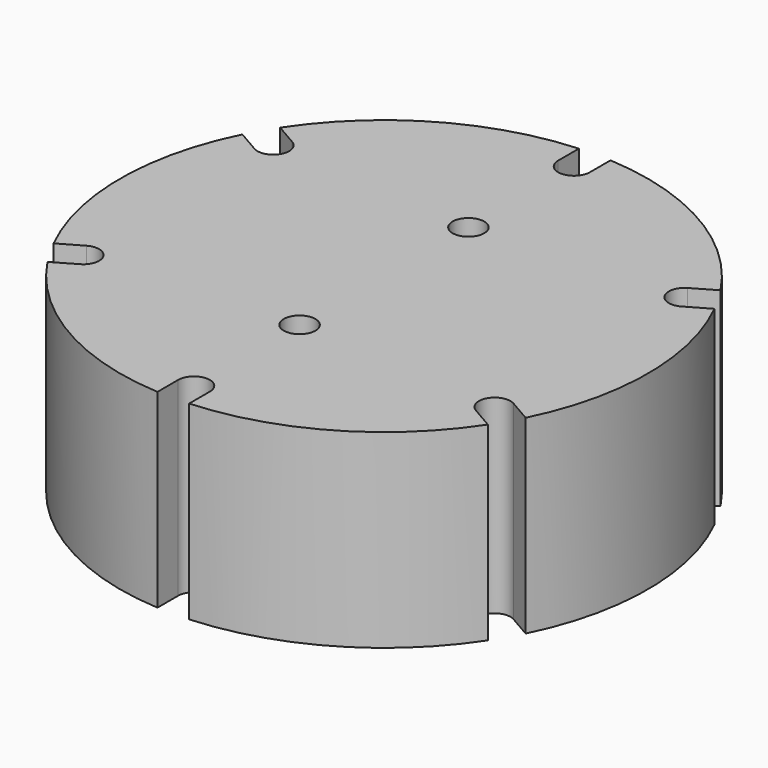
from build123d import *

# Parameters (mm, degrees)
F0_R     = 7.5
F1_DEPTH = 90


with BuildPart() as f1:
    # F0 (on Top) → F1 (new body)
    with BuildSketch(Plane.XY):
        with BuildLine():
            Line((-7.5, 112.5), (-7.5, 124.774797))
            ThreePointArc((-7.5, 124.774797), (-62.5, 108.253175), (-104.308144, 68.882589))
            Line((-104.308144, 68.882589), (-93.677858, 62.745191))
            ThreePointArc((-93.677858, 62.745191), (-90.932667, 52.5), (-101.177858, 49.754809))
            Line((-101.177858, 49.754809), (-111.808144, 55.892208))
            ThreePointArc((-111.808144, 55.892208), (-125, 0), (-111.808144, -55.892208))
            Line((-111.808144, -55.892208), (-101.177858, -49.754809))
            ThreePointArc((-101.177858, -49.754809), (-90.932667, -52.5), (-93.677858, -62.745191))
            Line((-93.677858, -62.745191), (-104.308144, -68.882589))
            ThreePointArc((-104.308144, -68.882589), (-62.5, -108.253175), (-7.5, -124.774797))
            Line((-7.5, -124.774797), (-7.5, -112.5))
            ThreePointArc((-7.5, -112.5), (0, -105), (7.5, -112.5))
            Line((7.5, -112.5), (7.5, -124.774797))
            ThreePointArc((7.5, -124.774797), (62.5, -108.253175), (104.308144, -68.882589))
            Line((104.308144, -68.882589), (93.677858, -62.745191))
            ThreePointArc((93.677858, -62.745191), (90.932667, -52.5), (101.177858, -49.754809))
            Line((101.177858, -49.754809), (111.808144, -55.892208))
            ThreePointArc((111.808144, -55.892208), (125, 0), (111.808144, 55.892208))
            Line((111.808144, 55.892208), (101.177858, 49.754809))
            ThreePointArc((101.177858, 49.754809), (90.932667, 52.5), (93.677858, 62.745191))
            Line((93.677858, 62.745191), (104.308144, 68.882589))
            ThreePointArc((104.308144, 68.882589), (62.5, 108.253175), (7.5, 124.774797))
            Line((7.5, 124.774797), (7.5, 112.5))
            ThreePointArc((7.5, 112.5), (0, 105), (-7.5, 112.5))
        make_face()
        with Locations((0, -50)):
            Circle(F0_R, mode=Mode.SUBTRACT)
        with Locations((0, 50)):
            Circle(F0_R, mode=Mode.SUBTRACT)
    extrude(amount=F1_DEPTH)


with BuildPart() as f1_1:
    # F2: moved
    add(f1.part.moved(Location((0, 0, -90))))


solid = f1_1.part
